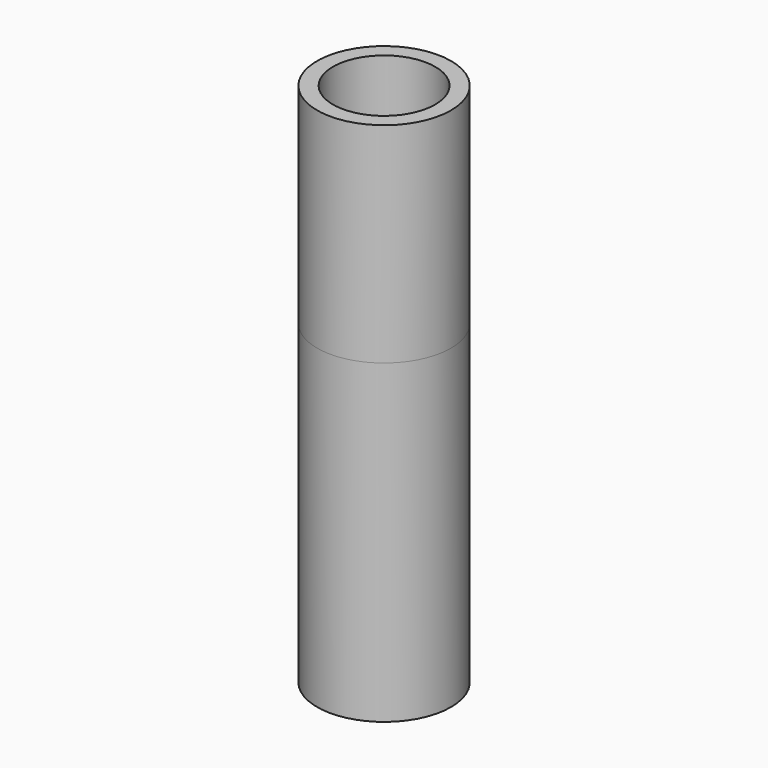
from build123d import *

# Parameters (mm, degrees)
F0_W      = 4.237288
F0_H      = 13.254238
F2_T      = -1
F1_FACE_R = 4.237288
F3_DEPTH  = 20


with BuildPart() as f1:
    # F0 (on Front) → F1 (revolve)
    with BuildSketch(Plane.XZ):
        with Locations((2.118644, 0)):
            Rectangle(F0_W, F0_H)
    revolve(axis=Axis((0, 0, 0), (0, 0, 1)))

    # F2
    f2_openings = [f1.faces().sort_by_distance(p)[0] for p in [
        (0, 0, 6.627119),
    ]]
    offset(amount=F2_T, openings=f2_openings)


with BuildPart() as f3:
    # F1_face (on face) → F3 (new body)
    with BuildSketch(Plane(origin=(0, 0, -6.627119), x_dir=(1, 0, 0), z_dir=(0, 0, -1))):
        Circle(F1_FACE_R)
    extrude(amount=F3_DEPTH)


solid = Compound([f1.part, f3.part])
